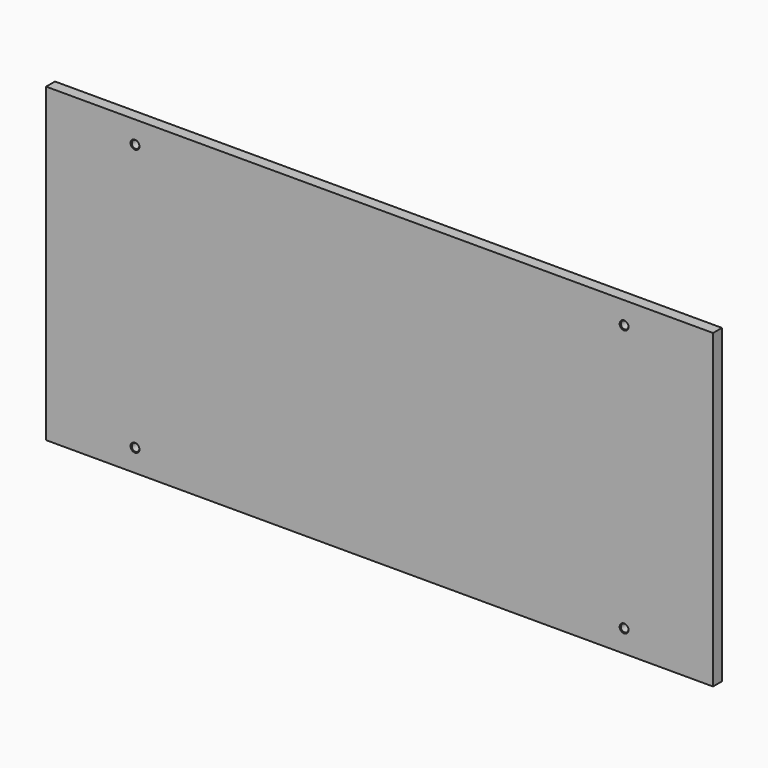
from build123d import *

# Parameters (mm, degrees)
F0_W           = 1500
F0_H           = 700
F1_DEPTH       = 25
F3_D           = 17
F3_CSINK_D     = 20
F3_CSINK_ANGLE = 90


with BuildPart() as f1:
    # F0 (on Front) → F1 (new body)
    with BuildSketch(Plane.XZ):
        Rectangle(F0_W, F0_H)
    extrude(amount=F1_DEPTH)

    # F3 (through all)
    with Locations(Plane.XZ.offset(25)):
        with Locations((-550, 300), (550, 300), (550, -300), (-550, -300)):
            CounterSinkHole(F3_D / 2, F3_CSINK_D / 2, counter_sink_angle=F3_CSINK_ANGLE)


solid = f1.part
